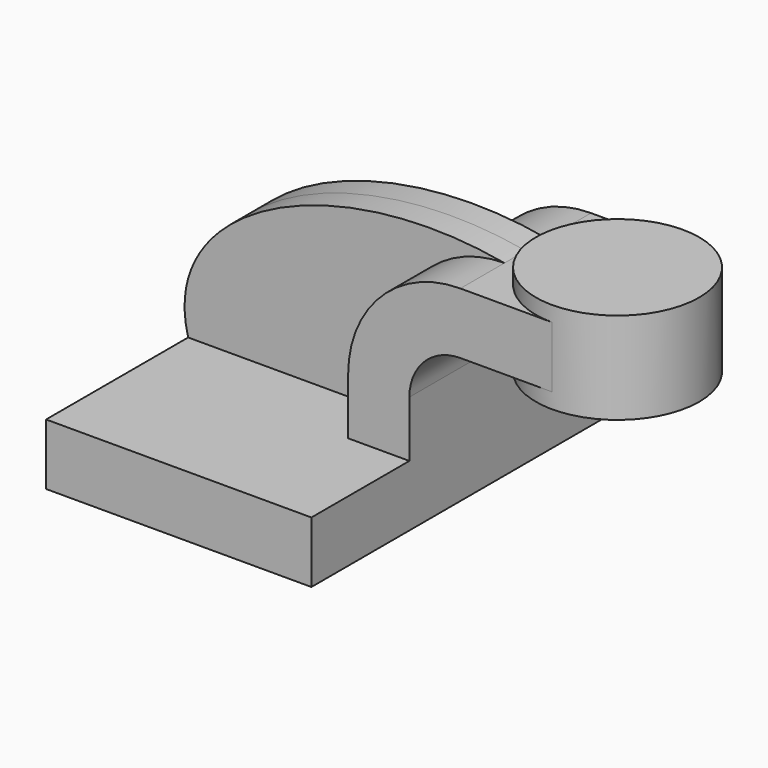
from build123d import *

# Parameters (mm, degrees)
F1_DEPTH = 63.5
F0_W     = 25.4
F0_H     = 19.05
F2_DEPTH = 25.4
F3_DEPTH = 8.255


with BuildPart() as f1:
    # F0 (on Front) → F1 (new body, symmetric)
    with BuildSketch(Plane.XZ):
        Polygon((-41.275, 9.525), (-41.275, -9.525), (41.275, -9.525), (41.275, 9.525), (22.225, 9.525), align=None)
    extrude(amount=F1_DEPTH, both=True)

    # F0 (on Front) → F2 (join, symmetric)
    with BuildSketch(Plane.XZ):
        with BuildLine():
            Line((22.225, 9.525), (41.275, 9.525))
            Line((41.275, 9.525), (41.275, 27.0002))
            ThreePointArc((41.275, 27.0002), (45.9246798487, 38.2255201513), (57.15, 42.8752))
            Line((57.15, 42.8752), (60.325, 42.8752))
            Line((60.325, 42.8752), (60.325, 61.9252))
            Line((60.325, 61.9252), (57.15, 61.9252))
            ThreePointArc((57.15, 61.9252), (32.4542956671, 51.6959043329), (22.225, 27.0002))
            Line((22.225, 27.0002), (22.225, 9.525))
        make_face()
        with Locations((73.025, 52.4002)):
            Rectangle(F0_W, F0_H)
    extrude(amount=F2_DEPTH, both=True)

    # F0 (on Front) → F3 (join, symmetric)
    with BuildSketch(Plane.XZ):
        with BuildLine():
            add(Edge.make_bspline(
                [(-41.275, 9.525), (-50.8186854422, 45.0256727636), (2.9303120675, 71.7999846045), (57.15, 61.9252)],
                knots=[0, 0, 0, 0, 111.5045361635, 111.5045361635, 111.5045361635, 111.5045361635], degree=3))
            Line((-41.275, 9.525), (22.225, 9.525))
            Line((22.225, 9.525), (22.225, 27.0002))
            ThreePointArc((22.225, 27.0002), (32.4542956671, 51.6959043329), (57.15, 61.9252))
        make_face()
    extrude(amount=F3_DEPTH, both=True)

    # F0 (on Front) → F4 (revolve)
    with BuildSketch(Plane.XZ):
        Polygon((85.725, 66.675), (85.725, 61.9252), (85.725, 42.8752), (85.725, 38.1), (111.125, 38.1), (111.125, 66.675), align=None)
    revolve(axis=Axis((85.725, 0, 52.3875), (0, 0, -1)))


solid = f1.part
